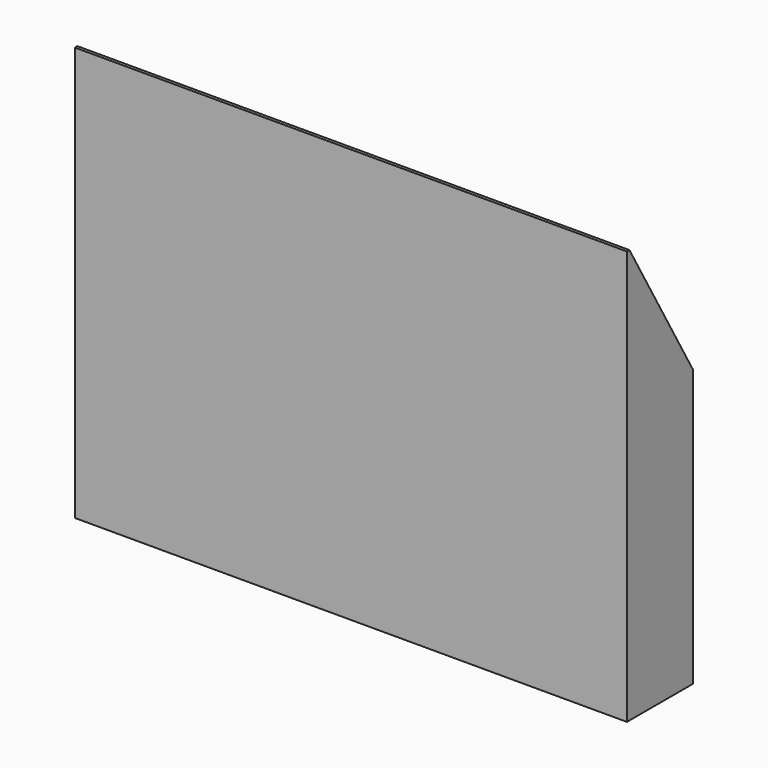
from build123d import *

# Parameters (mm, degrees)
F0_W     = 50.8
F0_H     = 38.1
F1_DEPTH = 7.62
F2_SIZE2 = 7.3323484187
F2_SIZE  = 12.7


with BuildPart() as f1:
    # F0 (on Front) → F1 (new body)
    with BuildSketch(Plane.XZ):
        with Locations((-25.4, 36.3855005682)):
            Rectangle(F0_W, F0_H)
    extrude(amount=F1_DEPTH)

    # F2
    f2_edges = [f1.edges().sort_by_distance(p)[0] for p in [
        (-25.4, 0, 55.435501),
    ]]
    f2_side = f1.faces().sort_by_distance((-25.4, 0, 36.385501))[0]
    chamfer(f2_edges, length=F2_SIZE, length2=F2_SIZE2, reference=f2_side)


solid = f1.part
